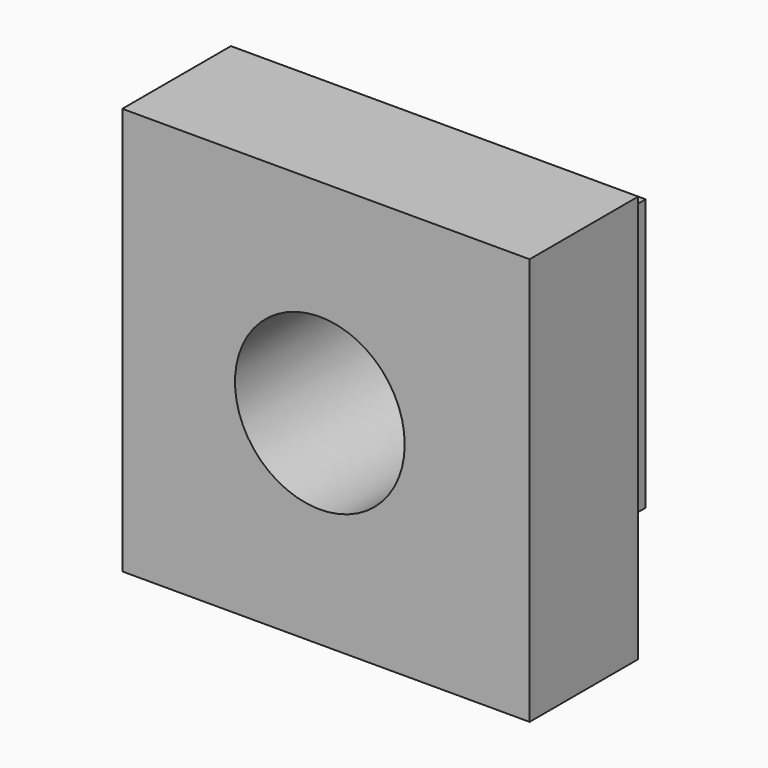
from build123d import *

# Parameters (mm, degrees)
F0_W     = 101.6
F0_H     = 101.6
F0_R     = 31.75
F1_DEPTH = 38.1
F0_W_2   = 152.4
F0_H_2   = 152.4
F2_DEPTH = 50.8


with BuildPart() as f1:
    # F0 (on Front) → F1 (new body)
    with BuildSketch(Plane.XZ):
        Rectangle(F0_W, F0_H)
        Circle(F0_R, mode=Mode.SUBTRACT)
    extrude(amount=-F1_DEPTH)

    # F0 (on Front) → F2 (join)
    with BuildSketch(Plane.XZ):
        with Locations((2.284581, 0)):
            Rectangle(F0_W_2, F0_H_2)
        Rectangle(F0_W, F0_H, mode=Mode.SUBTRACT)
        Rectangle(F0_W, F0_H)
        Circle(F0_R, mode=Mode.SUBTRACT)
    extrude(amount=F2_DEPTH)


solid = f1.part
